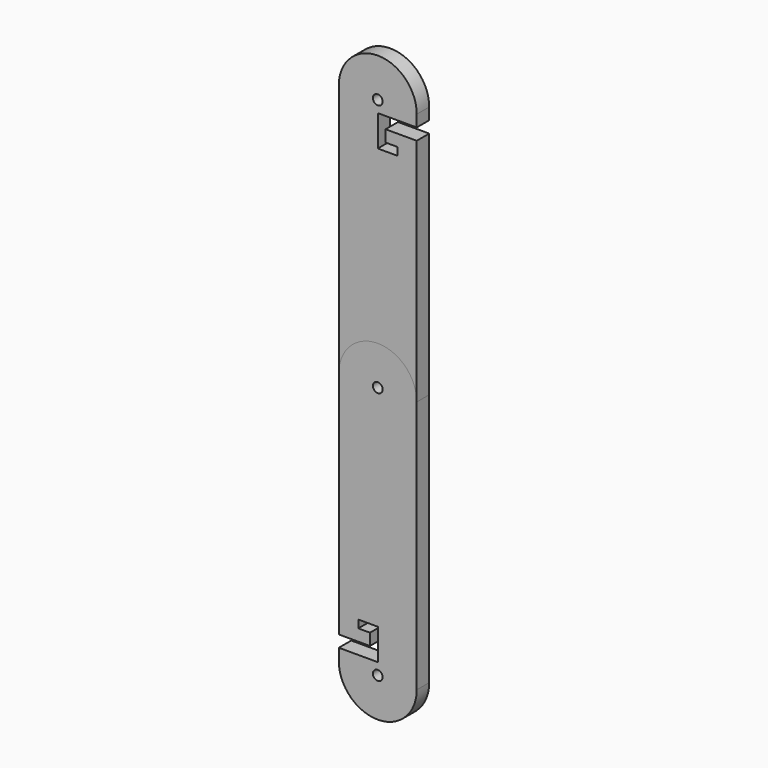
from build123d import *

# Parameters (mm, degrees)
F0_R     = 1.25
F1_DEPTH = 4
F2_DEPTH = 4


with BuildPart() as f1:
    # F0 (on Front) → F1 (new body)
    with BuildSketch(Plane.XZ):
        with BuildLine():
            Line((10, 0), (10, 65))
            ThreePointArc((10, 65), (0, 75), (-10, 65))
            Line((-10, 65), (-10, 6))
            Line((-10, 6), (-2, 6))
            Line((-2, 6), (-2, 9))
            Line((-2, 9), (-5, 9))
            Line((-5, 9), (-5, 11))
            Line((-5, 11), (0, 11))
            Line((0, 11), (0, 3))
            Line((0, 3), (-10, 3))
            Line((-10, 3), (-10, 0))
            ThreePointArc((-10, 0), (0, -10), (10, 0))
        make_face()
        Circle(F0_R, mode=Mode.SUBTRACT)
        with Locations((0, 65)):
            Circle(F0_R, mode=Mode.SUBTRACT)
        with BuildLine():
            ThreePointArc((-10, 65), (0, 75), (10, 65))
            Line((10, 65), (10, 124))
            Line((10, 124), (2, 124))
            Line((2, 124), (2, 121))
            Line((2, 121), (5, 121))
            Line((5, 121), (5, 119))
            Line((5, 119), (0, 119))
            Line((0, 119), (0, 127))
            Line((0, 127), (10, 127))
            Line((10, 127), (10, 130))
            ThreePointArc((10, 130), (0, 140), (-10, 130))
            Line((-10, 130), (-10, 65))
        make_face()
        with Locations((0, 130)):
            Circle(F0_R, mode=Mode.SUBTRACT)
    extrude(amount=F1_DEPTH)


with BuildPart() as f2:
    # F0 (on Front) → F2 (new body, through all)
    with BuildSketch(Plane.XZ):
        with BuildLine():
            Line((10, 0), (10, 65))
            ThreePointArc((10, 65), (0, 75), (-10, 65))
            Line((-10, 65), (-10, 6))
            Line((-10, 6), (-2, 6))
            Line((-2, 6), (-2, 9))
            Line((-2, 9), (-5, 9))
            Line((-5, 9), (-5, 11))
            Line((-5, 11), (0, 11))
            Line((0, 11), (0, 3))
            Line((0, 3), (-10, 3))
            Line((-10, 3), (-10, 0))
            ThreePointArc((-10, 0), (0, -10), (10, 0))
        make_face()
        Circle(F0_R, mode=Mode.SUBTRACT)
        with Locations((0, 65)):
            Circle(F0_R, mode=Mode.SUBTRACT)
    extrude(amount=F2_DEPTH)


solid = Compound([f1.part, f2.part])
